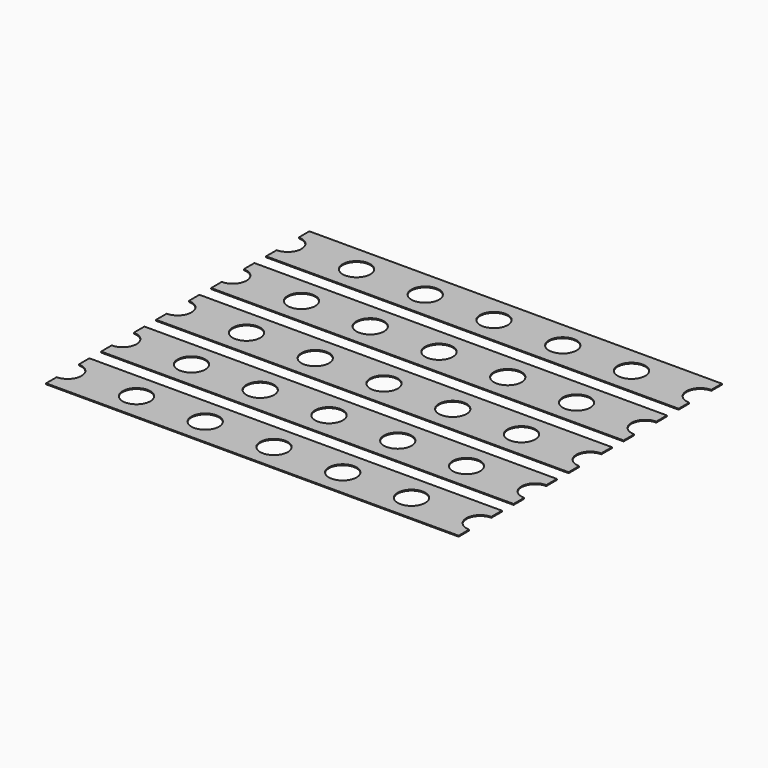
from build123d import *

# Parameters (mm, degrees)
SKETCH002_W            = 15.24
SKETCH002_H            = 2
PAD001_DEPTH           = 0.035
SKETCH003_R            = 0.51
POCKET001_DEPTH        = 0.036
LINEARPATTERN004_COUNT = 7
LINEARPATTERN004_PITCH = 2.54
ARRAY_Y_COUNT          = 5
ARRAY_Y_PITCH          = 2.54


with BuildPart() as part:
    # Sketch002 → Pad001 (new body)
    with BuildSketch(Plane.XY):
        with Locations((0, 5.08)):
            Rectangle(SKETCH002_W, SKETCH002_H)
    extrude(amount=-PAD001_DEPTH)

    # Sketch003 → Pocket001 (cut, through all)
    with BuildSketch(Plane.XY):
        with Locations((-7.62, 5.08)):
            Circle(SKETCH003_R)
    pocket001 = extrude(amount=-POCKET001_DEPTH, mode=Mode.SUBTRACT)

    # LinearPattern004: Pocket001 ×7
    with Locations(*[(i * LINEARPATTERN004_PITCH, 0, 0) for i in range(1, LINEARPATTERN004_COUNT)]):
        add(pocket001, mode=Mode.SUBTRACT)

    # Array Y: part ×5


with BuildPart() as part_1:
    add(part.part)
    with Locations(*[(0, -i * ARRAY_Y_PITCH, 0) for i in range(1, ARRAY_Y_COUNT)]):
        add(part.part)


solid = part_1.part
